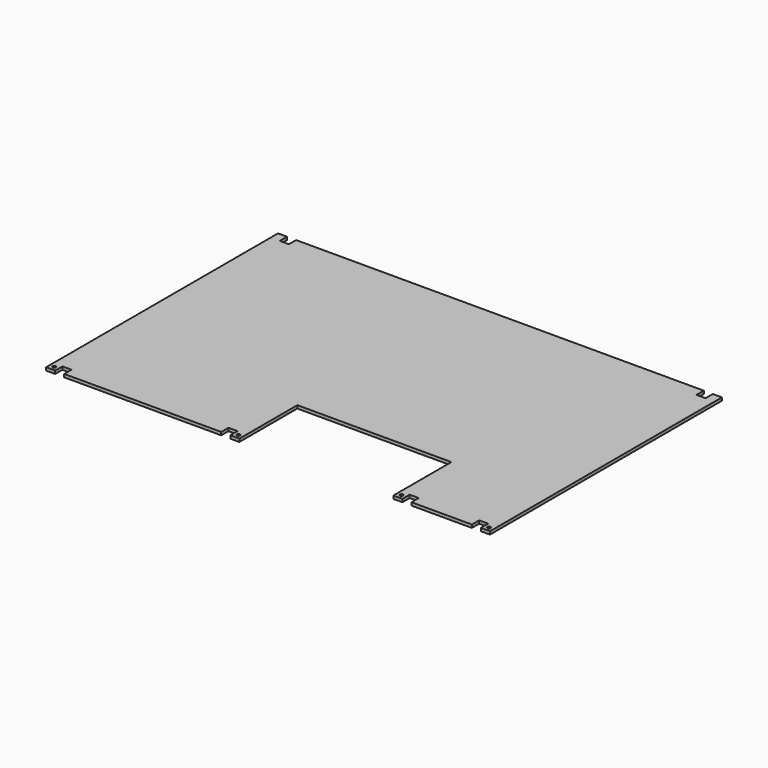
from build123d import *

# Parameters (mm, degrees)
F0_R     = 1.7272
F1_DEPTH = 3.175


with BuildPart() as f1:
    # F0 (on Top) → F1 (new body)
    with BuildSketch(Plane.XY):
        Polygon((0, 0), (0, 76.2), (161.925, 76.2), (161.925, 0), (171.45, 0), (171.45, 9.525), (180.975, 9.525), (180.975, 0), (244.475, 0), (244.475, 9.525), (254, 9.525), (254, 0), (263.525, 0), (263.525, 304.8), (254, 304.8), (254, 295.275), (244.475, 295.275), (244.475, 304.8), (-184.15, 304.8), (-184.15, 295.275), (-193.675, 295.275), (-193.675, 304.8), (-203.2, 304.8), (-203.2, 0), (-193.675, 0), (-193.675, 9.525), (-184.15, 9.525), (-184.15, 0), (-19.05, 0), (-19.05, 9.525), (-9.525, 9.525), (-9.525, 0), align=None)
        with Locations((-198.4375, 4.7625)):
            Circle(F0_R, mode=Mode.SUBTRACT)
        with Locations((-4.7625, 4.7625)):
            Circle(F0_R, mode=Mode.SUBTRACT)
        with Locations((166.6875, 4.7625)):
            Circle(F0_R, mode=Mode.SUBTRACT)
        with Locations((258.7625, 4.7625)):
            Circle(F0_R, mode=Mode.SUBTRACT)
    extrude(amount=F1_DEPTH)


solid = f1.part
